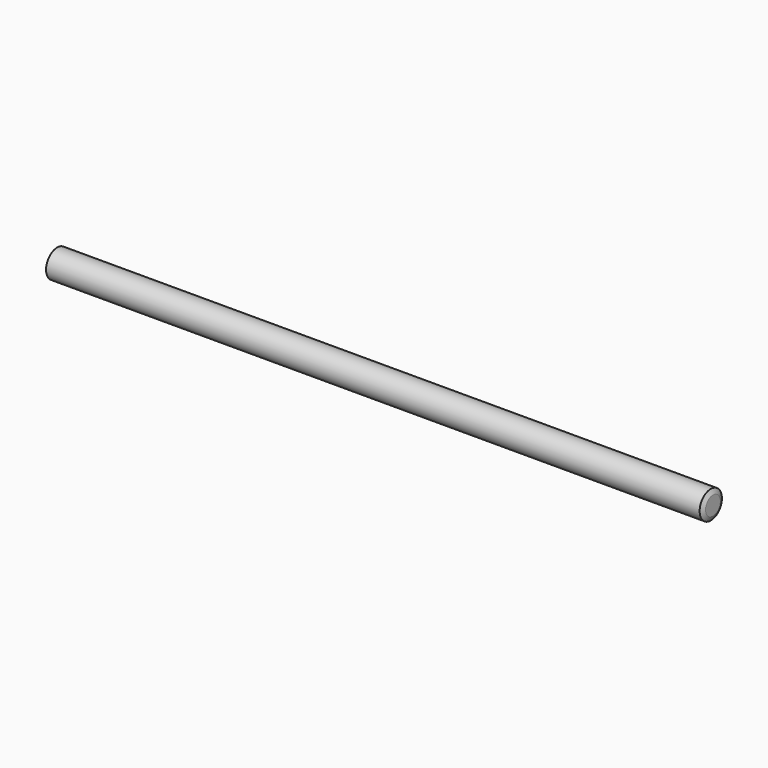
from build123d import *

# Parameters (mm, degrees)
F0_R       = 9
F1_DEPTH   = 425
F2_SIZE2   = 1.3989229745
F2_SIZE    = 3
F2_2_SIZE2 = 1.3989229745
F2_2_SIZE  = 3


with BuildPart() as f1:
    # F0 (on Right) → F1 (new body)
    with BuildSketch(Plane.YZ):
        Circle(F0_R)
    extrude(amount=F1_DEPTH)

    # F2
    f2_edges = [f1.edges().sort_by_distance(p)[0] for p in [
        (425, -9, 0),
    ]]
    f2_side = f1.faces().sort_by_distance((425, 0, 0))[0]
    chamfer(f2_edges, length=F2_SIZE, length2=F2_SIZE2, reference=f2_side)

    # F2#2
    f2_2_edges = [f1.edges().sort_by_distance(p)[0] for p in [
        (0, -9, 0),
    ]]
    f2_2_side = f1.faces().sort_by_distance((0, 0, 0))[0]
    chamfer(f2_2_edges, length=F2_2_SIZE, length2=F2_2_SIZE2, reference=f2_2_side)


solid = f1.part
